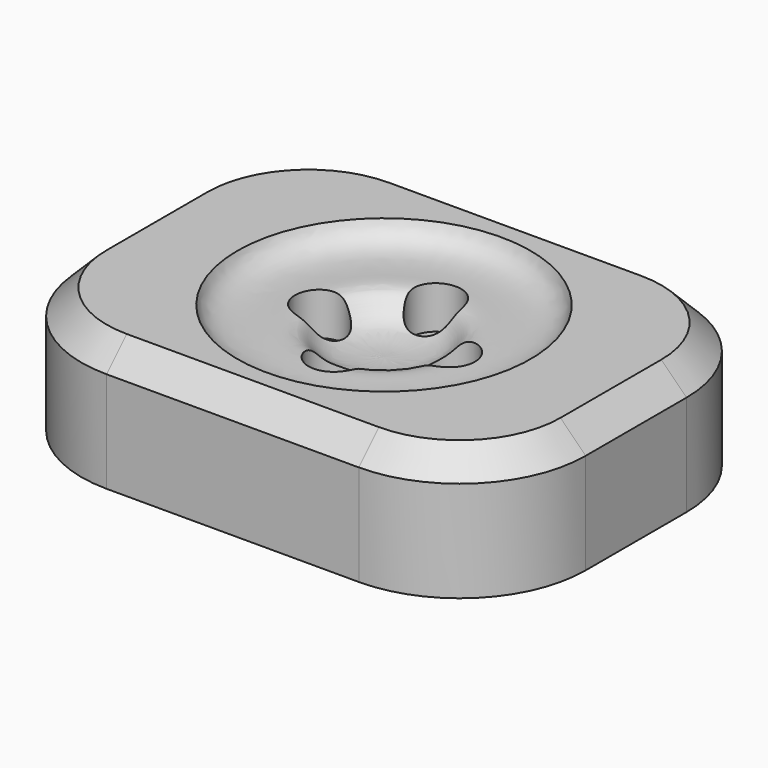
from build123d import *

# Parameters (mm, degrees)
F0_W     = 200
F0_H     = 150
F1_DEPTH = 25
F2_R     = 50
F5_SIZE  = 10
F6_R     = 9.7838698058
F6_R_2   = 10
F6_R_3   = 10.147546669
F6_R_4   = 9.9344737349
F7_DEPTH = 25


with BuildPart() as f1:
    # F0 (on Top) → F1 (new body, symmetric)
    with BuildSketch(Plane.XY):
        Rectangle(F0_W, F0_H)
    extrude(amount=F1_DEPTH, both=True)

    # F2
    f2_edges = [f1.edges().sort_by_distance(p)[0] for p in [
        (-100, -75, 0),
        (100, -75, 0),
        (100, 75, 0),
        (-100, 75, 0),
    ]]
    fillet(f2_edges, radius=F2_R)

    # F3 (on Front) → F4 (revolve, cut)
    with BuildSketch(Plane.XZ):
        with BuildLine():
            Line((0, 25), (-58.1593476236, 25))
            add(Edge.make_bspline(
                [(-58.1593476236, 25), (-53.9096311875, 12.7192745819), (-17.6634682668, 23.9500074163), (-23.8563775859, 5.5907417856), (0, 6.6510247998)],
                knots=[0, 0, 0, 0, 0.5060175337, 1, 1, 1, 1], degree=3))
            Line((0, 6.6510247998), (0, 25))
        make_face()
    revolve(axis=Axis((0, 0, 15.8255123999), (0, 0, 1)), mode=Mode.SUBTRACT)

    # F5
    f5_edges = [f1.edges().sort_by_distance(p)[0] for p in [
        (0, -75, 25),
    ]]
    chamfer(f5_edges, length=F5_SIZE)

    # F6 (on face) → F7 (cut)
    with BuildSketch(Plane.XY.offset(25)):
        with Locations((-25.5249421373, 0)):
            Circle(F6_R)
        with Locations((0, 25.7132698898)):
            Circle(F6_R_2)
        with Locations((25.905932002, 0)):
            Circle(F6_R_3)
        with Locations((0, -24.9556606683)):
            Circle(F6_R_4)
    extrude(amount=-F7_DEPTH, mode=Mode.SUBTRACT)


solid = f1.part
